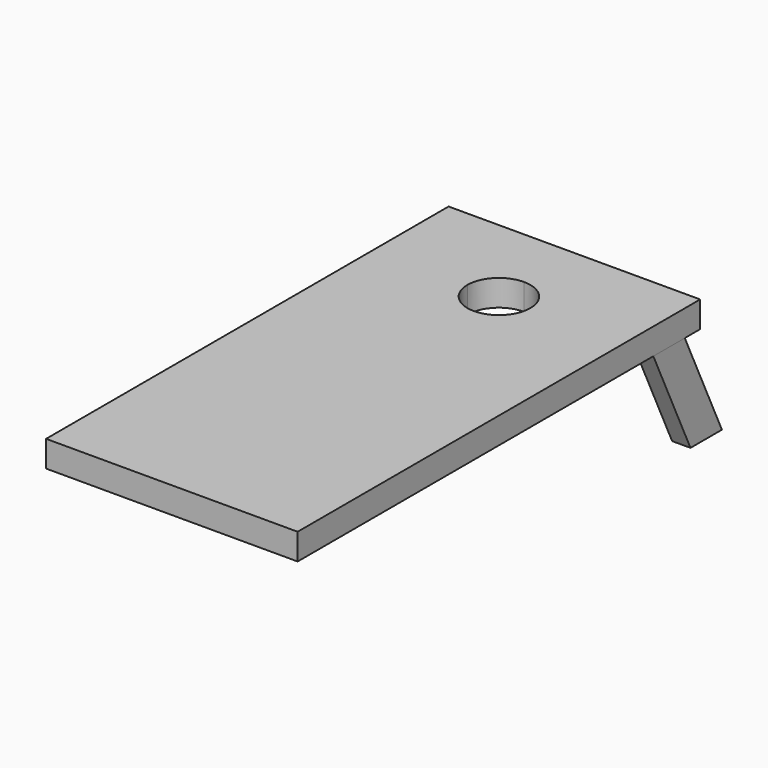
from build123d import *

# Parameters (mm, degrees)
F1_DEPTH = 63.5
F3_DEPTH = 44.45
F5_DEPTH = 44.45


with BuildPart() as f1:
    # F0 (on Top) → F1 (new body)
    with BuildSketch(Plane.XY):
        with BuildLine():
            Line((0, 1219.2), (0, 990.6))
            Line((0, 990.6), (228.6, 990.6))
            ThreePointArc((228.6, 990.6), (250.918463, 1044.481537), (304.8, 1066.8))
            Line((304.8, 1066.8), (304.8, 1219.2))
            Line((304.8, 1219.2), (0, 1219.2))
        make_face()
        with BuildLine():
            Line((381, 990.6), (609.6, 990.6))
            Line((609.6, 990.6), (609.6, 1219.2))
            Line((609.6, 1219.2), (304.8, 1219.2))
            Line((304.8, 1219.2), (304.8, 1066.8))
            ThreePointArc((304.8, 1066.8), (358.681537, 1044.481537), (381, 990.6))
        make_face()
        with BuildLine():
            Line((304.8, 914.4), (304.8, 0))
            Line((304.8, 0), (609.6, 0))
            Line((609.6, 0), (609.6, 990.6))
            Line((609.6, 990.6), (381, 990.6))
            ThreePointArc((381, 990.6), (358.681537, 936.718463), (304.8, 914.4))
        make_face()
        with BuildLine():
            Line((0, 990.6), (0, 0))
            Line((0, 0), (304.8, 0))
            Line((304.8, 0), (304.8, 914.4))
            ThreePointArc((304.8, 914.4), (250.918463, 936.718463), (228.6, 990.6))
            Line((228.6, 990.6), (0, 990.6))
        make_face()
    extrude(amount=F1_DEPTH)


with BuildPart() as f3:
    # F2 (on face) → F3 (new body)
    with BuildSketch(Plane(origin=(0, 0, 0), x_dir=(0, -1, 0), z_dir=(-1, 0, 0))):
        Polygon((-1067.51379, 0), (-1172.610536, 0), (-1285.130574, -241.3), (-1180.033827, -241.3), align=None)
    extrude(amount=-F3_DEPTH)


with BuildPart() as f5:
    # F4 (on face) → F5 (new body)
    with BuildSketch(Plane.YZ.offset(609.6)):
        Polygon((1172.610536, 0), (1077.360536, 0), (1189.880574, -241.3), (1285.130574, -241.3), align=None)
    extrude(amount=-F5_DEPTH)


solid = Compound([f1.part, f3.part, f5.part])
